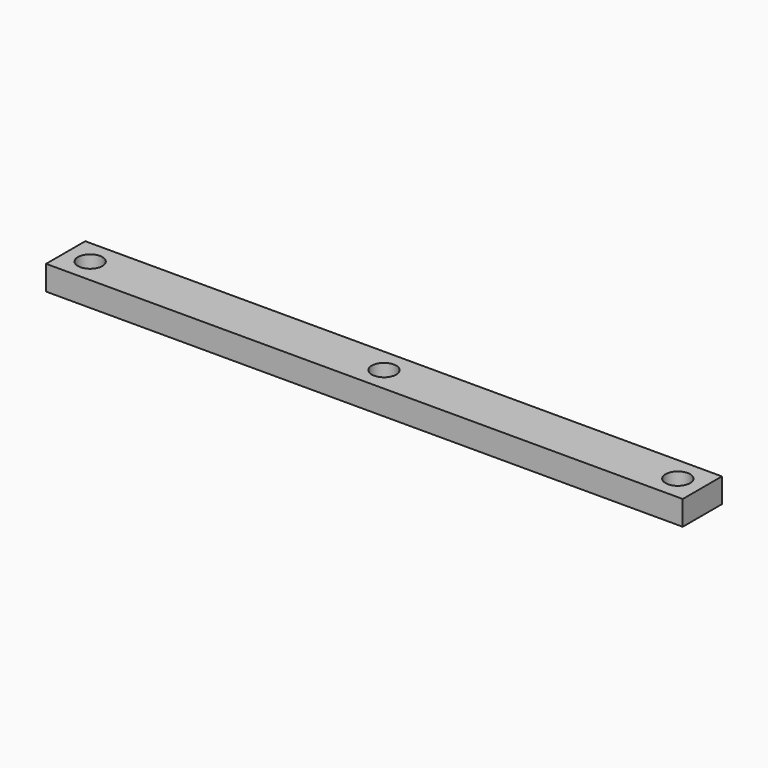
from build123d import *

# Parameters (mm, degrees)
F0_W     = 165.1
F0_H     = 12.7
F1_DEPTH = 6.35
F2_R     = 3.175
F3_DEPTH = 25.4


with BuildPart() as f1:
    # F0 (on Top) → F1 (new body)
    with BuildSketch(Plane.XY):
        with Locations((82.55, 6.35)):
            Rectangle(F0_W, F0_H)
    extrude(amount=F1_DEPTH)

    # F2 (on face) → F3 (cut)
    with BuildSketch(Plane.XY.offset(6.35)):
        with Locations((6.35, 6.35)):
            Circle(F2_R)
        with Locations((82.55, 6.35)):
            Circle(F2_R)
        with Locations((158.75, 6.35)):
            Circle(F2_R)
    extrude(amount=-F3_DEPTH, mode=Mode.SUBTRACT)


solid = f1.part
